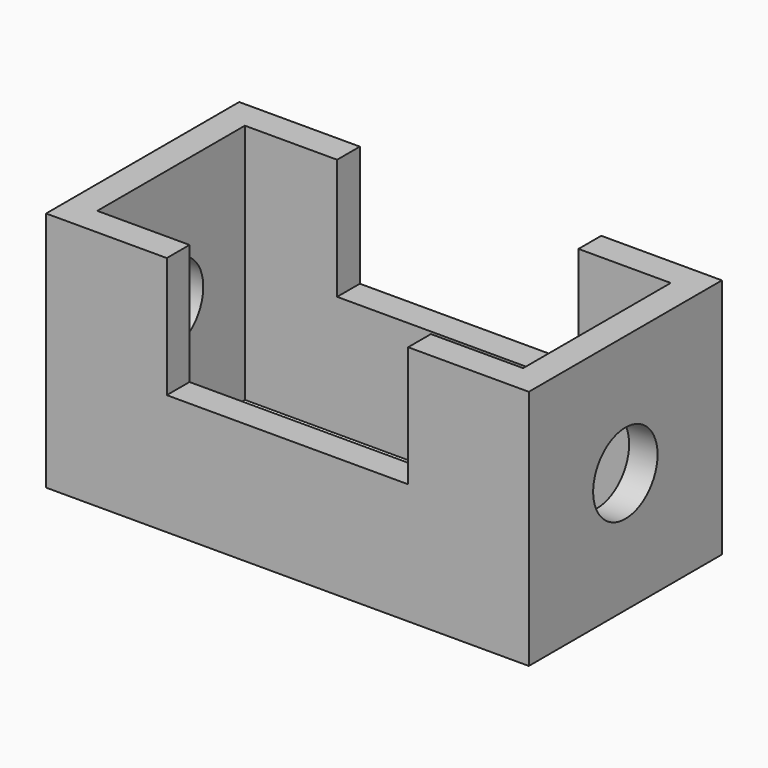
from build123d import *

# Parameters (mm, degrees)
F0_W     = 152.4
F0_H     = 76.2
F0_W_2   = 134.439488
F0_H_2   = 58.239488
F1_DEPTH = 76.2
F2_W     = 76.2
F2_H     = 38.1
F3_DEPTH = 25.4
F4_W     = 76.2
F4_H     = 38.1
F5_DEPTH = 25.4
F6_R     = 12.7
F7_DEPTH = 51.562
F8_R     = 12.7
F9_DEPTH = 25.4


with BuildPart() as f1:
    # F0 (on Top) → F1 (new body)
    with BuildSketch(Plane.XY):
        with Locations((-3.510571, 16.603382)):
            Rectangle(F0_W, F0_H)
        with Locations((-3.510571, 16.603382)):
            Rectangle(F0_W_2, F0_H_2, mode=Mode.SUBTRACT)
    extrude(amount=F1_DEPTH)

    # F2 (on face) → F3 (cut)
    with BuildSketch(Plane.XZ.offset(21.496618)):
        with Locations((-3.510571, 57.15)):
            Rectangle(F2_W, F2_H)
    extrude(amount=-F3_DEPTH, mode=Mode.SUBTRACT)

    # F4 (on face) → F5 (cut)
    with BuildSketch(Plane(origin=(0, 54.703382, 0), x_dir=(-1, 0, 0), z_dir=(0, 1, 0))):
        with Locations((3.510571, 57.15)):
            Rectangle(F4_W, F4_H)
    extrude(amount=-F5_DEPTH, mode=Mode.SUBTRACT)

    # F6 (on face) → F7 (cut)
    with BuildSketch(Plane(origin=(-79.710571, 0, 0), x_dir=(0, -1, 0), z_dir=(-1, 0, 0))):
        with Locations((-16.603382, 38.1)):
            Circle(F6_R)
    extrude(amount=-F7_DEPTH, mode=Mode.SUBTRACT)

    # F8 (on face) → F9 (cut)
    with BuildSketch(Plane.YZ.offset(72.689429)):
        with Locations((16.603382, 38.1)):
            Circle(F8_R)
    extrude(amount=-F9_DEPTH, mode=Mode.SUBTRACT)


solid = f1.part
